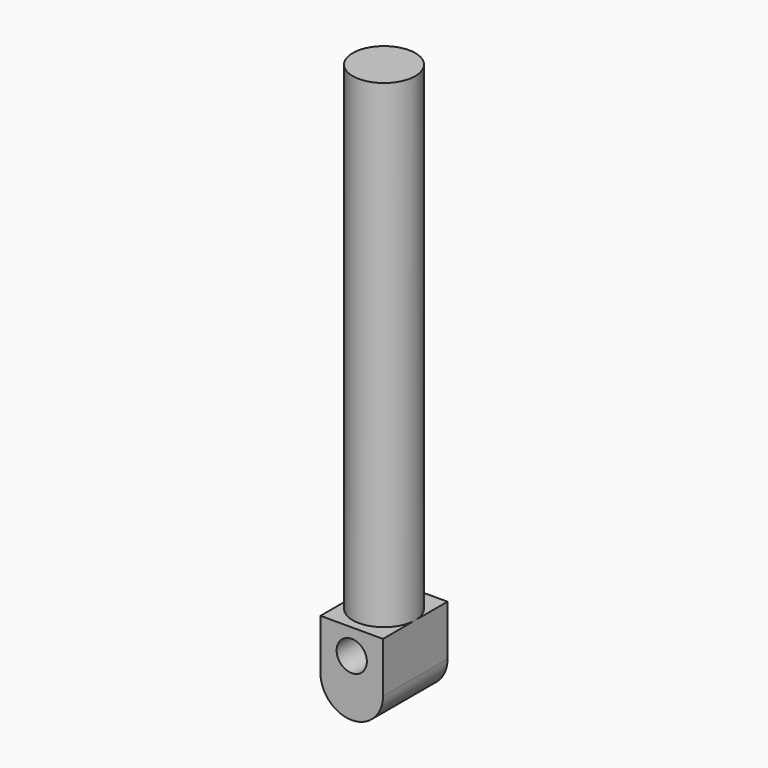
from build123d import *

# Parameters (mm, degrees)
F0_W     = 7.874
F0_H     = 6.35
F1_DEPTH = 10.16
F2_R     = 1.905
F3_DEPTH = 10.161
F5_DEPTH = 60.325


with BuildPart() as f1:
    # F0 (on Front) → F1 (new body)
    with BuildSketch(Plane.XZ):
        Rectangle(F0_W, F0_H)
        with BuildLine():
            Line((3.937, -3.175), (-3.937, -3.175))
            ThreePointArc((-3.937, -3.175), (0, -7.112), (3.937, -3.175))
        make_face()
    extrude(amount=F1_DEPTH)

    # F2 (on face) → F3 (cut, through all)
    with BuildSketch(Plane.XZ.offset(10.16)):
        Circle(F2_R)
    extrude(amount=-F3_DEPTH, mode=Mode.SUBTRACT)

    # F4 (on face) → F5 (join)
    with BuildSketch(Plane.XY.offset(3.175)):
        with BuildLine():
            ThreePointArc((-3.937, -5.08), (0, -9.017), (3.937, -5.08))
            ThreePointArc((3.937, -5.08), (0, -1.143), (-3.937, -5.08))
        make_face()
    extrude(amount=F5_DEPTH)


solid = f1.part
